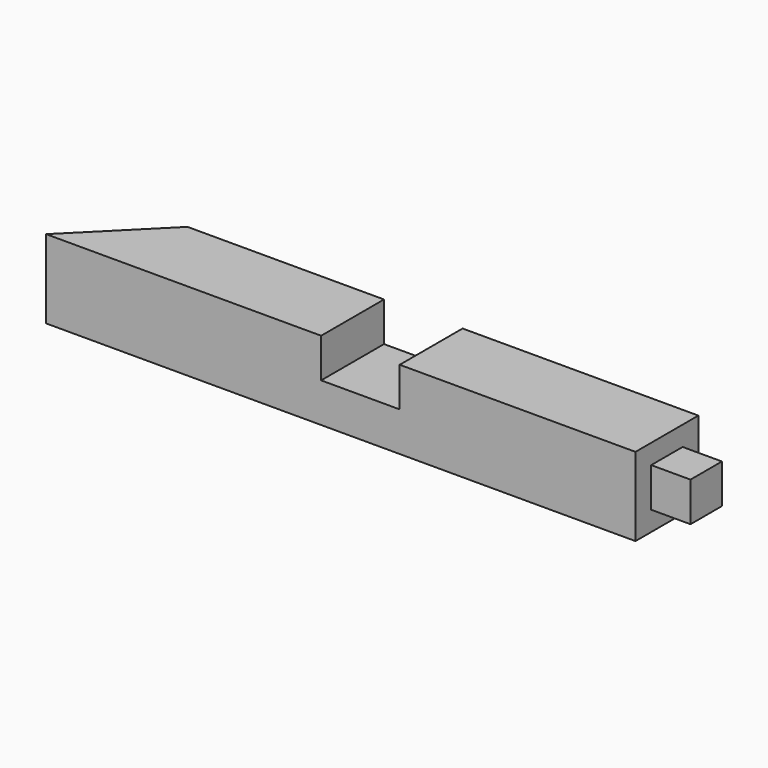
from build123d import *

# Parameters (mm, degrees)
F1_DEPTH = 19.05
F2_W     = 38.1
F2_H     = 38.1
F3_DEPTH = 19.05
F4_W     = 38.1
F4_H     = 38.1
F4_W_2   = 19.05
F4_H_2   = 19.05
F5_DEPTH = 19.05


with BuildPart() as f1:
    # F0 (on Top) → F1 (new body, symmetric)
    with BuildSketch(Plane.XY):
        Polygon((152.4, -19.05), (152.4, 19.05), (-114.3, 19.05), (-152.4, -19.05), align=None)
    extrude(amount=F1_DEPTH, both=True)

    # F2 (on Top) → F3 (cut)
    with BuildSketch(Plane.XY):
        Rectangle(F2_W, F2_H)
    extrude(amount=F3_DEPTH, mode=Mode.SUBTRACT)

    # F4 (on face) → F5 (cut)
    with BuildSketch(Plane.YZ.offset(152.4)):
        Rectangle(F4_W, F4_H)
        Rectangle(F4_W_2, F4_H_2, mode=Mode.SUBTRACT)
    extrude(amount=-F5_DEPTH, mode=Mode.SUBTRACT)


solid = f1.part
